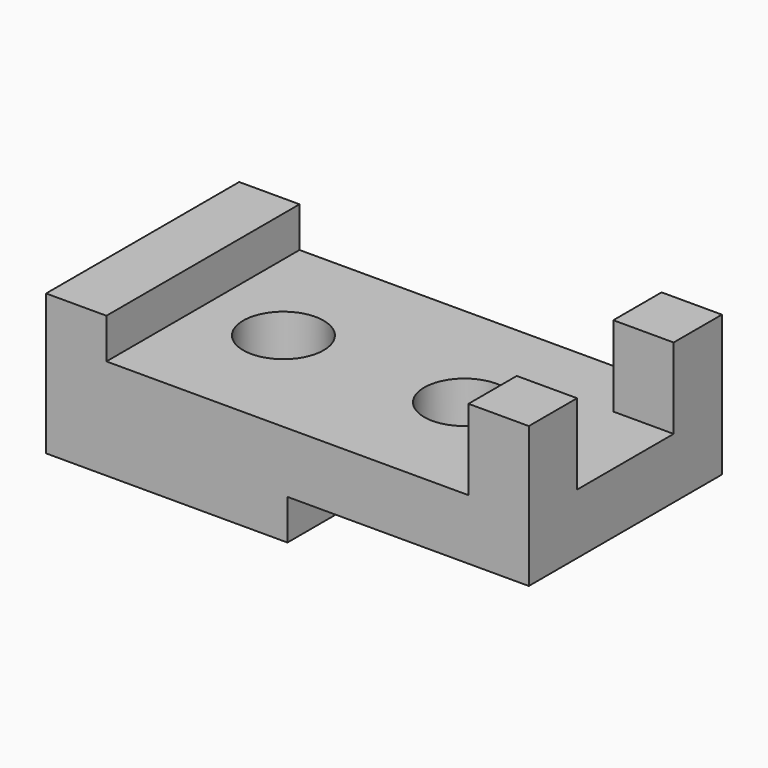
from build123d import *

# Parameters (mm, degrees)
F0_W     = 15
F0_H     = 60
F0_W_2   = 45
F0_R     = 10
F0_H_2   = 15
F1_DEPTH = 25
F2_DEPTH = 45
F3_DEPTH = 35
F4_DEPTH = 10


with BuildPart() as f1:
    # F0 (on Top) → F1 (new body)
    with BuildSketch(Plane.XY):
        with Locations((-52.5, 0)):
            Rectangle(F0_W, F0_H)
        with Locations((-22.5, 0)):
            Rectangle(F0_W_2, F0_H)
        with Locations((-25, 0)):
            Circle(F0_R, mode=Mode.SUBTRACT)
        Polygon((45, 30), (0, 30), (0, -30), (45, -30), (45, -15), (60, -15), (60, 15), (45, 15), align=None)
        with Locations((20, 0)):
            Circle(F0_R, mode=Mode.SUBTRACT)
        with Locations((52.5, 22.5)):
            Rectangle(F0_W, F0_H_2)
        with Locations((52.5, -22.5)):
            Rectangle(F0_W, F0_H_2)
    extrude(amount=F1_DEPTH)

    # F0 (on Top) → F2 (join)
    with BuildSketch(Plane.XY):
        with Locations((52.5, -22.5)):
            Rectangle(F0_W, F0_H_2)
        with Locations((52.5, 22.5)):
            Rectangle(F0_W, F0_H_2)
    extrude(amount=F2_DEPTH)

    # F0 (on Top) → F3 (join)
    with BuildSketch(Plane.XY):
        with Locations((-52.5, 0)):
            Rectangle(F0_W, F0_H)
    extrude(amount=F3_DEPTH)

    # F0 (on Top) → F4 (cut)
    with BuildSketch(Plane.XY):
        Polygon((45, 30), (0, 30), (0, -30), (45, -30), (45, -15), (60, -15), (60, 15), (45, 15), align=None)
        with Locations((20, 0)):
            Circle(F0_R, mode=Mode.SUBTRACT)
        with Locations((52.5, -22.5)):
            Rectangle(F0_W, F0_H_2)
        with Locations((52.5, 22.5)):
            Rectangle(F0_W, F0_H_2)
    extrude(amount=F4_DEPTH, mode=Mode.SUBTRACT)


solid = f1.part
